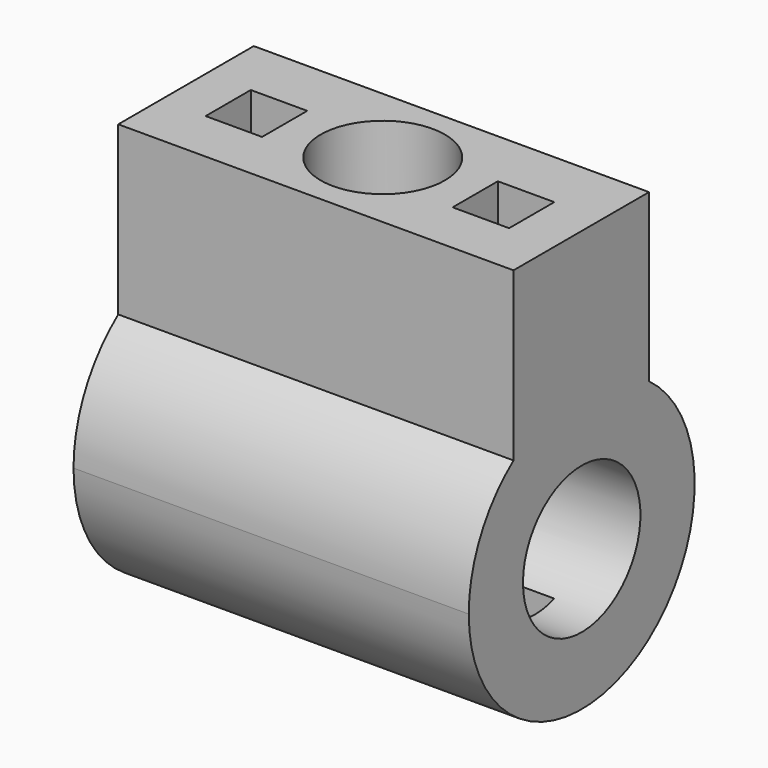
from build123d import *

# Parameters (mm, degrees)
F0_W     = 70
F0_H     = 30
F1_DEPTH = 66
F2_W     = 10
F2_H     = 10
F2_R     = 11
F3_DEPTH = 66
F5_DEPTH = 70
F6_R     = 13
F7_DEPTH = 70


with BuildPart() as f1:
    # F0 (on Top) → F1 (new body)
    with BuildSketch(Plane.XY):
        with Locations((-13.832236, -1.578948)):
            Rectangle(F0_W, F0_H)
    extrude(amount=F1_DEPTH)

    # F2 (on face) → F3 (cut)
    with BuildSketch(Plane.XY.offset(66)):
        with Locations((-35.937502, -2.105263)):
            Rectangle(F2_W, F2_H)
        with Locations((7.812499, -2.105263)):
            Rectangle(F2_W, F2_H)
        with Locations((-14.062501, -1.480263)):
            Circle(F2_R)
    extrude(amount=-F3_DEPTH, mode=Mode.SUBTRACT)

    # F4 (on face) → F5 (join)
    with BuildSketch(Plane(origin=(-48.832236, 0, 0), x_dir=(0, -1, 0), z_dir=(-1, 0, 0))):
        with BuildLine():
            ThreePointArc((-13.421052, 36.504558), (-9.755108, -5.902156), (26.480263, 16.430924))
            ThreePointArc((26.480263, 16.430924), (23.868509, 27.55596), (16.578948, 36.356528))
            Line((16.578948, 36.356528), (16.578948, 0))
            Line((16.578948, 0), (-13.421052, 0))
            Line((-13.421052, 0), (-13.421052, 36.504558))
        make_face()
    extrude(amount=-F5_DEPTH)

    # F6 (on face) → F7 (cut)
    with BuildSketch(Plane(origin=(-48.832236, 0, 0), x_dir=(0, -1, 0), z_dir=(-1, 0, 0))):
        with Locations((1.480263, 16.430924)):
            Circle(F6_R)
    extrude(amount=-F7_DEPTH, mode=Mode.SUBTRACT)


solid = f1.part
